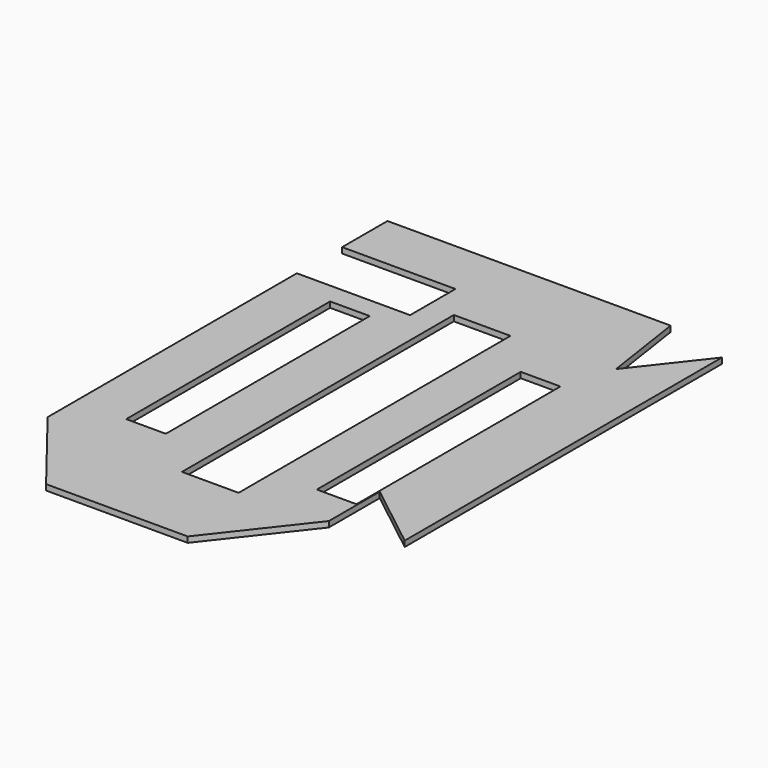
from build123d import *

# Parameters (mm, degrees)
F1_DEPTH = 1
F2_W     = 10
F2_H     = 60
F2_W_2   = 7
F2_H_2   = 45
F3_DEPTH = 25


with BuildPart() as f1:
    # F0 (on Top) → F1 (new body)
    with BuildSketch(Plane.XY):
        Polygon((49.139852, 59.205397), (39.893209, 47.394403), (37.671142, 62.228904), (-12.328858, 62.228904), (-12.328858, 52.228904), (7.671142, 52.228904), (7.671142, 42.228904), (-12.328858, 42.228904), (-12.328858, -12.771096), (0, -28.519088), (25, -28.519088), (37.328858, -12.771096), (37.328858, -1.547959), (49.139852, -10.794603), align=None)
    extrude(amount=F1_DEPTH)

    # F2 (on face) → F3 (cut)
    with BuildSketch(Plane.XY.offset(1)):
        with Locations((17.343746, 16.035888)):
            Rectangle(F2_W, F2_H)
        with Locations((0, 16.035878)):
            Rectangle(F2_W_2, F2_H_2)
        with Locations((33.656242, 16.035886)):
            Rectangle(F2_W_2, F2_H_2)
    extrude(amount=-F3_DEPTH, mode=Mode.SUBTRACT)


solid = f1.part
